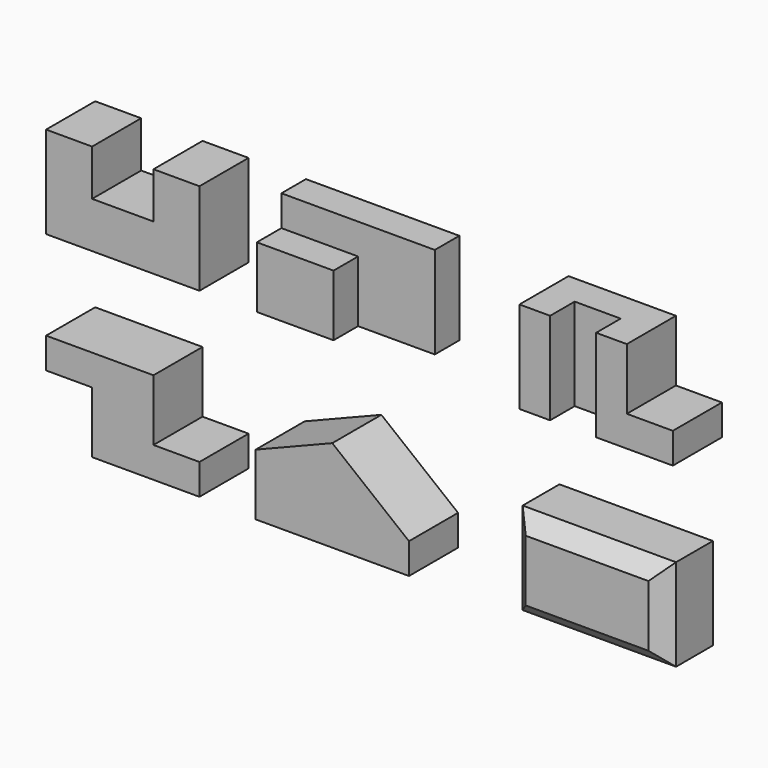
from build123d import *

# Parameters (mm, degrees)
F1_DEPTH  = 101.6
F2_W      = 254
F2_H      = 152.4
F3_DEPTH  = 101.6
F5_DEPTH  = 50.8
F6_W      = 50.8
F6_H      = 152.4
F6_W_2    = 76.2
F7_DEPTH  = 101.6
F8_W      = 76.2
F8_H      = 152.4
F9_DEPTH  = 50.8
F11_DEPTH = 101.6
F13_DEPTH = 101.6
F14_W     = 254
F14_H     = 152.4
F15_DEPTH = 101.6
F17_DEPTH = 254
F19_DEPTH = 152.4


with BuildPart() as f1:
    # F0 (on Front) → F1 (new body)
    with BuildSketch(Plane.XZ):
        Polygon((0, 152.4), (0, 0), (254, 0), (254, 152.4), (177.8, 152.4), (177.8, 76.2), (76.2, 76.2), (76.2, 152.4), align=None)
    extrude(amount=-F1_DEPTH)


with BuildPart() as f3:
    # F2 (on Front) → F3 (new body)
    with BuildSketch(Plane.XZ):
        with Locations((476.023339, 76.2)):
            Rectangle(F2_W, F2_H)
    extrude(amount=-F3_DEPTH)

    # F4 (on face) → F5 (cut)
    with BuildSketch(Plane.XZ):
        Polygon((603.023339, 152.4), (349.023339, 152.4), (349.023339, 101.6), (476.023339, 101.6), (476.023339, 0), (603.023339, 0), align=None)
    extrude(amount=-F5_DEPTH, mode=Mode.SUBTRACT)


with BuildPart() as f7:
    # F6 (on Front) → F7 (new body)
    with BuildSketch(Plane.XZ):
        with Locations((809.266603, 76.2)):
            Rectangle(F6_W, F6_H)
        Polygon((910.866603, 152.4), (910.866603, 0), (1037.866603, 0), (1037.866603, 50.8), (961.666603, 50.8), (961.666603, 152.4), align=None)
        with Locations((872.766603, 76.2)):
            Rectangle(F6_W_2, F6_H)
    extrude(amount=-F7_DEPTH)

    # F8 (on face) → F9 (cut)
    with BuildSketch(Plane.XZ):
        with Locations((872.766603, 76.2)):
            Rectangle(F8_W, F8_H)
    extrude(amount=-F9_DEPTH, mode=Mode.SUBTRACT)


with BuildPart() as f11:
    # F10 (on Front) → F11 (new body)
    with BuildSketch(Plane.XZ):
        Polygon((177.8, -147.962385), (0, -147.962385), (0, -198.762385), (76.2, -198.762385), (76.2, -300.362385), (254, -300.362385), (254, -249.562385), (177.8, -249.562385), align=None)
    extrude(amount=-F11_DEPTH)


with BuildPart() as f13:
    # F12 (on Front) → F13 (new body)
    with BuildSketch(Plane.XZ):
        Polygon((346.938163, -201.381824), (346.938163, -302.981824), (600.938163, -302.981824), (600.938163, -252.181824), (473.938163, -150.581824), align=None)
    extrude(amount=-F13_DEPTH)


with BuildPart() as f15:
    # F14 (on Front) → F15 (new body)
    with BuildSketch(Plane.XZ):
        with Locations((895.855677, -232.186042)):
            Rectangle(F14_W, F14_H)
    extrude(amount=-F15_DEPTH)

    # F16 (on face) → F17 (cut)
    with BuildSketch(Plane.YZ.offset(1022.855677)):
        Polygon((0, -181.386042), (25.4, -155.986042), (0, -155.986042), align=None)
        Polygon((25.4, -308.386042), (0, -282.986042), (0, -308.386042), align=None)
    extrude(amount=-F17_DEPTH, mode=Mode.SUBTRACT)

    # F18 (on face) → F19 (cut)
    with BuildSketch(Plane.XY.offset(-155.986042)):
        Polygon((794.255677, 0), (768.855677, 25.4), (768.855677, 0), align=None)
        Polygon((1022.855677, 0), (1022.855677, 25.4), (997.455677, 0), align=None)
    extrude(amount=-F19_DEPTH, mode=Mode.SUBTRACT)


solid = Compound([f1.part, f3.part, f7.part, f11.part, f13.part, f15.part])
